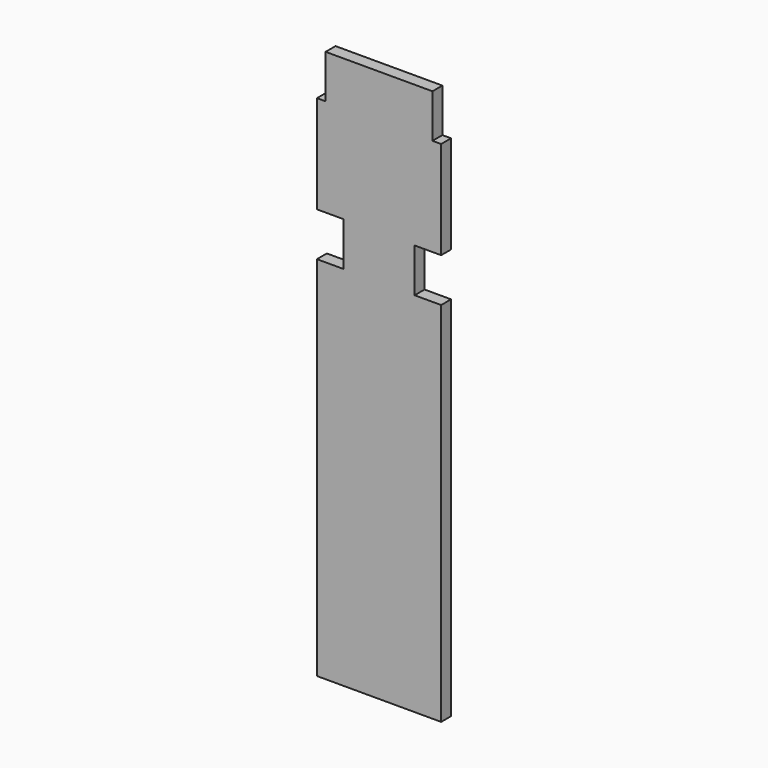
from build123d import *

# Parameters (mm, degrees)
F0_W     = 21.848912
F0_H     = 8.9154
F1_DEPTH = 2.54


with BuildPart() as f1:
    # F0 (on Front) → F1 (new body)
    with BuildSketch(Plane.XZ):
        Polygon((-12.7, 0), (0, 0), (12.7, 0), (12.7, 75.0316), (7.279842, 75.0316), (-7.279842, 75.0316), (-12.7, 75.0316), align=None)
        Polygon((-7.279842, 83.9978), (-7.279842, 75.0316), (7.279842, 75.0316), (7.279842, 83.9978), (0, 83.9978), align=None)
        Polygon((-12.7, 83.9978), (-7.279842, 83.9978), (0, 83.9978), (7.279842, 83.9978), (12.7, 83.9978), (12.7, 104.013), (10.924456, 104.013), (-10.924456, 104.013), (-12.7, 104.013), align=None)
        with Locations((0, 108.4707)):
            Rectangle(F0_W, F0_H)
    extrude(amount=-F1_DEPTH)


solid = f1.part
